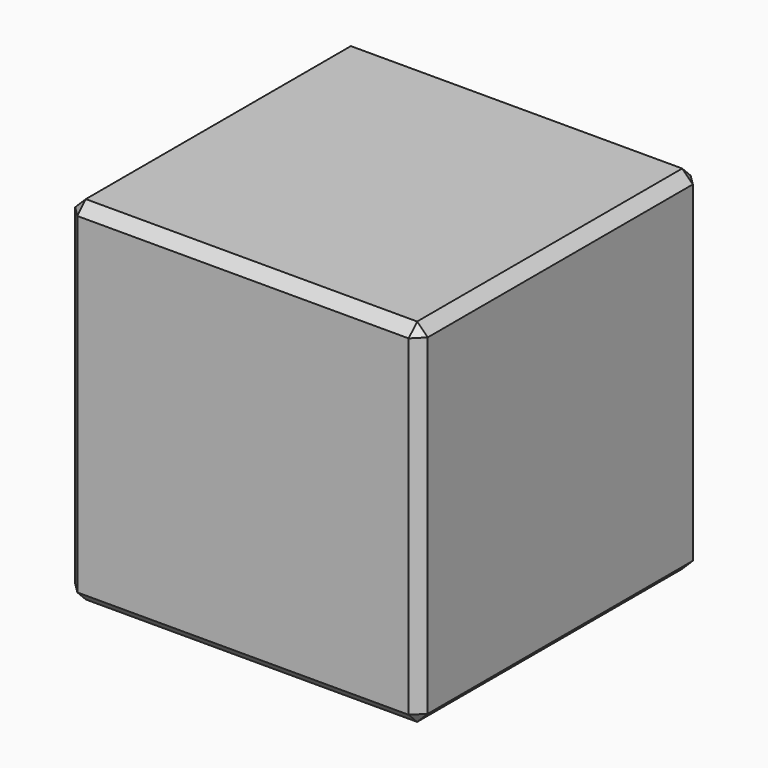
from build123d import *

# Parameters (mm, degrees)
F0_W     = 25.4
F0_H     = 25.4
F1_DEPTH = 12.7
F2_SIZE  = 0.762


with BuildPart() as f1:
    # F0 (on Front) → F1 (new body, symmetric)
    with BuildSketch(Plane.XZ):
        Rectangle(F0_W, F0_H)
    extrude(amount=F1_DEPTH, both=True)

    # F2
    f2_edges = [f1.edges().sort_by_distance(p)[0] for p in [
        (0, 12.7, 12.7),
        (-12.7, 0, 12.7),
        (0, -12.7, 12.7),
        (12.7, 0, 12.7),
        (12.7, 12.7, 0),
        (12.7, -12.7, 0),
        (12.7, 0, -12.7),
        (-12.7, -12.7, 0),
        (0, -12.7, -12.7),
        (-12.7, 12.7, 0),
        (-12.7, 0, -12.7),
        (0, 12.7, -12.7),
    ]]
    chamfer(f2_edges, length=F2_SIZE)


solid = f1.part
